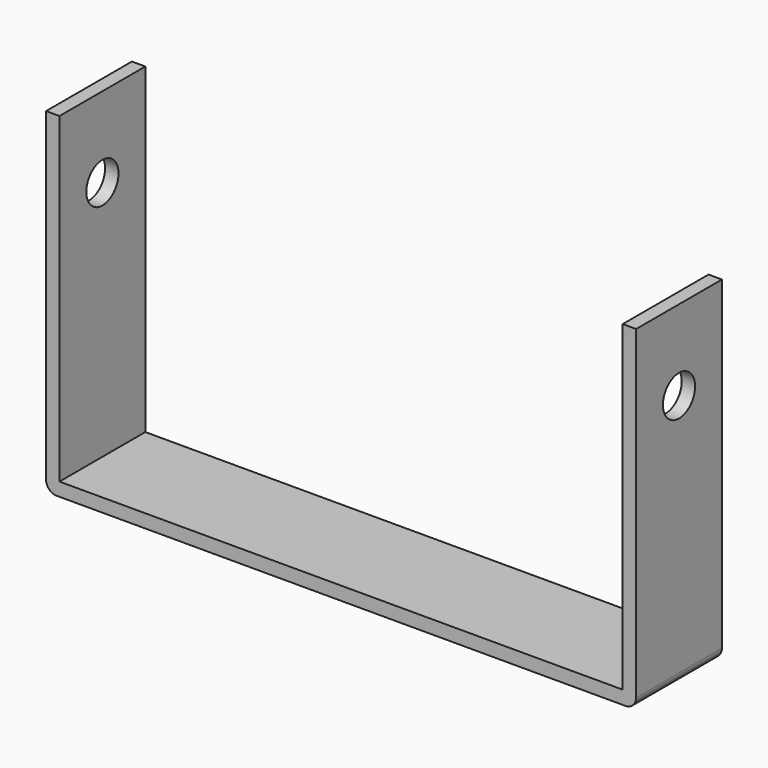
from build123d import *

# Parameters (mm, degrees)
F1_DEPTH = 25.4
F2_R     = 2.54
F3_R     = 4.7625
F4_DEPTH = 152.4


with BuildPart() as f1:
    # F0 (on Front) → F1 (new body)
    with BuildSketch(Plane.XZ):
        Polygon((-69.85, -56.106601), (0, -56.106601), (69.85, -56.106601), (69.85, -52.931601), (69.85, 23.268399), (66.675, 23.268399), (66.675, -52.931601), (-66.675, -52.931601), (-66.675, 23.268399), (-69.85, 23.268399), (-69.85, -52.931601), align=None)
    extrude(amount=F1_DEPTH)

    # F2
    f2_edges = [f1.edges().sort_by_distance(p)[0] for p in [
        (-69.85, -12.7, -56.106601),
        (69.85, -12.7, -56.106601),
    ]]
    fillet(f2_edges, radius=F2_R)

    # F3 (on face) → F4 (cut)
    with BuildSketch(Plane(origin=(-69.85, 0, 0), x_dir=(0, -1, 0), z_dir=(-1, 0, 0))):
        with Locations((12.7, 4.218399)):
            Circle(F3_R)
    extrude(amount=-F4_DEPTH, mode=Mode.SUBTRACT)


solid = f1.part
